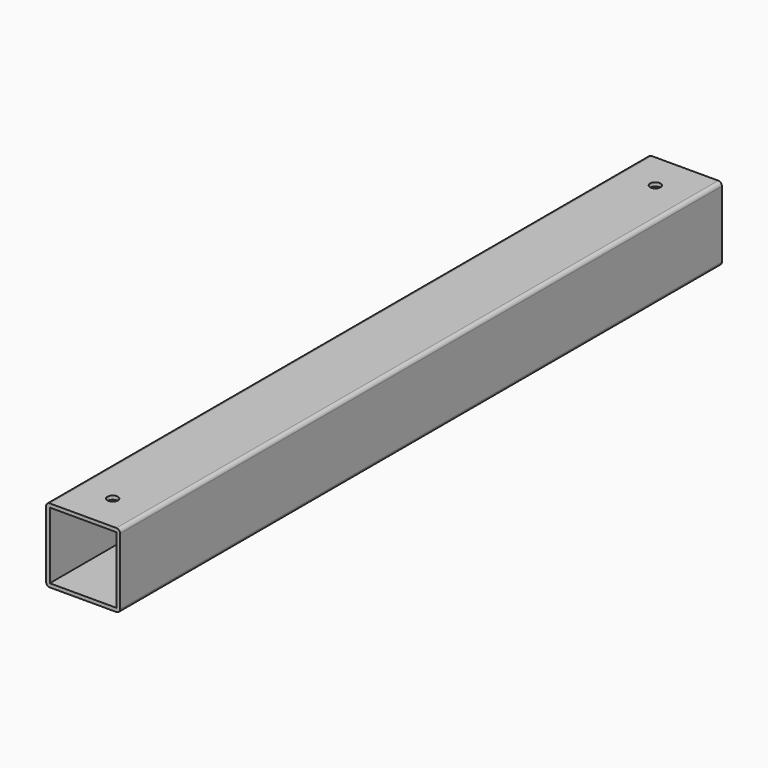
from build123d import *

# Parameters (mm, degrees)
SKETCH_W     = 60
SKETCH_H     = 60
SKETCH_W_2   = 54
SKETCH_H_2   = 54
PAD_DEPTH    = 610
SKETCH001_R  = 4.25
POCKET_DEPTH = 3
FILLET_R     = 3


with BuildPart() as part:
    # Sketch → Pad (new body)
    with BuildSketch(Plane.XZ):
        Rectangle(SKETCH_W, SKETCH_H)
        Rectangle(SKETCH_W_2, SKETCH_H_2, mode=Mode.SUBTRACT)
    extrude(amount=PAD_DEPTH)

    # Sketch001 (on Face1 of Pad) → Pocket (cut)
    with BuildSketch(Plane(origin=(0, 0, 30), x_dir=(-1, 0, 0), z_dir=(0, 0, 1))):
        with Locations((0, 30)):
            Circle(SKETCH001_R)
        with Locations((0, 580)):
            Circle(SKETCH001_R)
    extrude(amount=-POCKET_DEPTH, mode=Mode.SUBTRACT)

    # Fillet
    fillet_edges = [part.edges().sort_by_distance(p)[0] for p in [
        (30, -305, 30),
        (30, -305, -30),
        (-30, -305, 30),
        (-30, -305, -30),
    ]]
    fillet(fillet_edges, radius=FILLET_R)


solid = part.part
